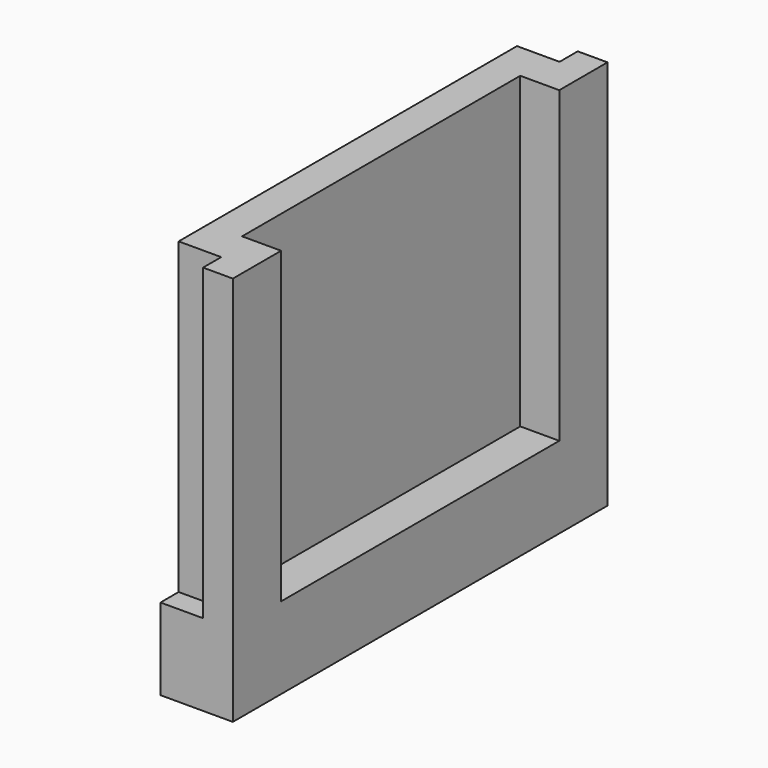
from build123d import *

# Parameters (mm, degrees)
F0_W     = 16.764
F0_H     = 2.5908
F1_DEPTH = 13.97
F2_W     = 0.8128
F2_H     = 1.524
F2_W_2   = 12.446
F2_H_2   = 1.397
F3_DEPTH = 11.049
F4_ANGLE = -90
F5_ANGLE = 90


with BuildPart() as f1:
    # F0 (on Front) → F1 (new body)
    with BuildSketch(Plane.XZ):
        with Locations((8.382, 1.2954)):
            Rectangle(F0_W, F0_H)
    extrude(amount=F1_DEPTH)

    # F2 (on face) → F3 (cut)
    with BuildSketch(Plane(origin=(0, 0, 0), x_dir=(-1, 0, 0), z_dir=(0, 1, 0))):
        with Locations((-16.3576, 1.8288)):
            Rectangle(F2_W, F2_H)
        with Locations((-0.4064, 1.8288)):
            Rectangle(F2_W, F2_H)
        with Locations((-8.382, 0.6985)):
            Rectangle(F2_W_2, F2_H_2)
    extrude(amount=-F3_DEPTH, mode=Mode.SUBTRACT)


with BuildPart() as f1_1:
    # F4: moved
    add(f1.part.rotate(Axis((0, -13.97, 1.2954), (0, 0, 1)), F4_ANGLE))


with BuildPart() as f1_2:
    # F5: moved
    add(f1_1.part.rotate(Axis((0, -22.352, 0), (0, -1, 0)), F5_ANGLE))


solid = f1_2.part
